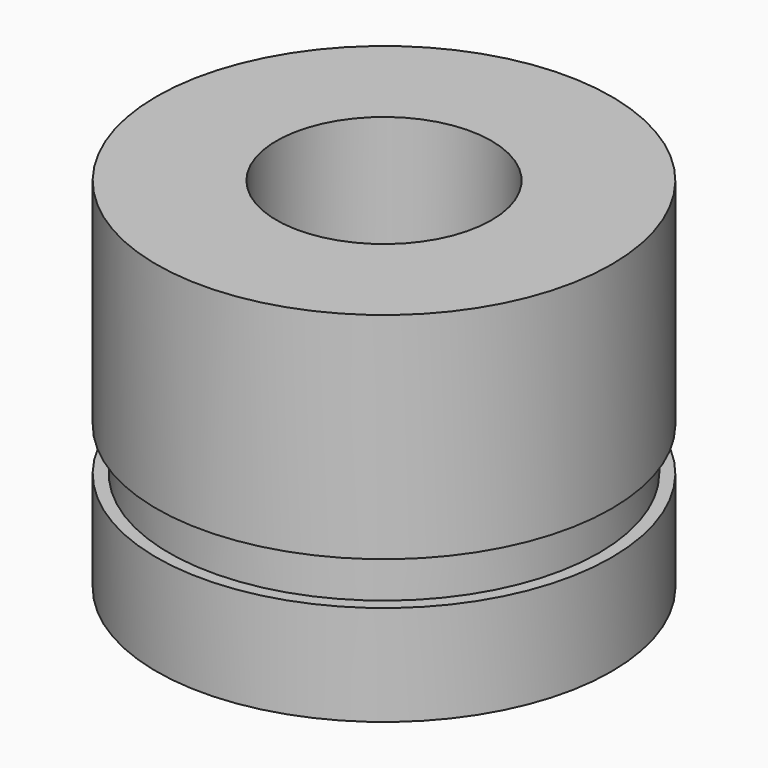
from build123d import *

# Parameters (mm, degrees)
F0_R     = 15.875
F0_R_2   = 7.5
F1_DEPTH = 25
F3_R     = 15.875
F3_R_2   = 15
F4_DEPTH = 3


with BuildPart() as f1:
    # F0 (on Top) → F1 (new body)
    with BuildSketch(Plane.XY):
        Circle(F0_R)
        Circle(F0_R_2, mode=Mode.SUBTRACT)
    extrude(amount=F1_DEPTH)

    # F3 (on offset) → F4 (cut)
    with BuildSketch(Plane.XY.offset(7)):
        Circle(F3_R)
        Circle(F3_R_2, mode=Mode.SUBTRACT)
    extrude(amount=F4_DEPTH, mode=Mode.SUBTRACT)


solid = f1.part
